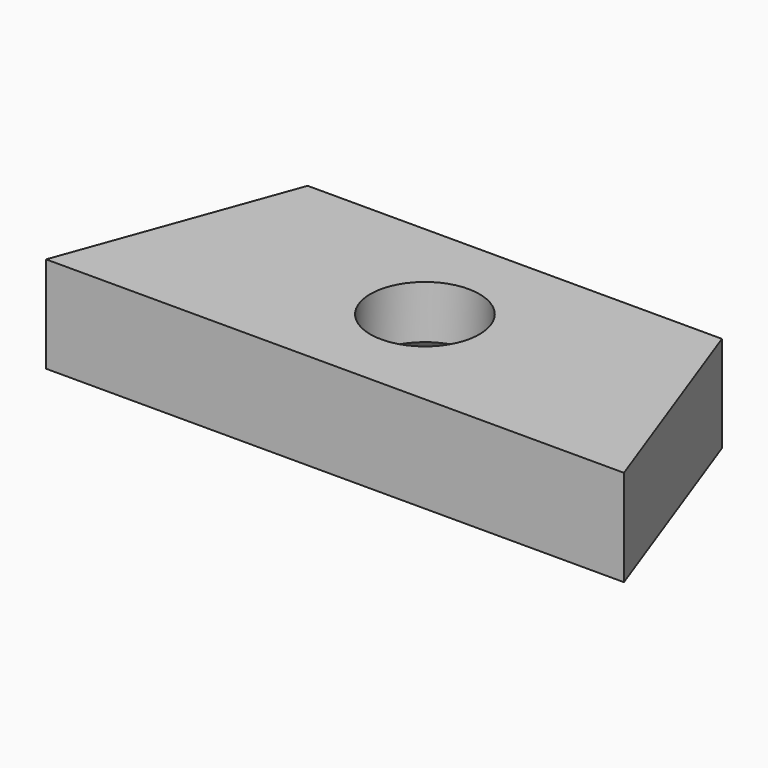
from build123d import *

# Parameters (mm, degrees)
PAD013_DEPTH        = 3
HOLE012_D           = 3.4
HOLE012_DEPTH       = 25
HOLE012_CSINK_D     = 6.1
HOLE012_CSINK_ANGLE = 90


with BuildPart() as body020:
    # Sketch042 (on Face1 of Binder029) → Pad013 (new body)
    with BuildSketch(Plane.XY):
        Polygon((-18.5, -59.5), (-15.952208, -66.5), (-3.047792, -66.5), (-0.5, -59.5), align=None)
    extrude(amount=PAD013_DEPTH)

    # Hole012
    with Locations(Plane(origin=(0, 0, 0), x_dir=(1, 0, 0), z_dir=(0, 0, -1))):
        with Locations((-9.5, 63)):
            CounterSinkHole(HOLE012_D / 2, HOLE012_CSINK_D / 2, depth=HOLE012_DEPTH, counter_sink_angle=HOLE012_CSINK_ANGLE)


with BuildPart() as part_mirroring:
    # Part__Mirroring: instance of Body020
    add(body020.part.mirror(Plane(origin=(0, 0, 0), x_dir=(1, 0, 0), z_dir=(0, 1, 0))))


solid = part_mirroring.part
